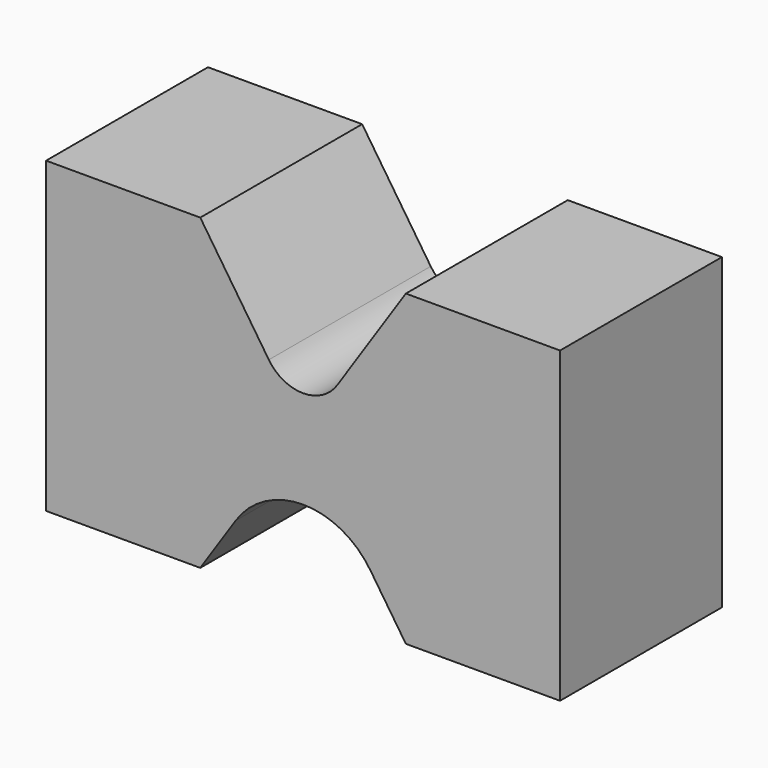
from build123d import *

# Parameters (mm, degrees)
F1_DEPTH = 50
F2_R     = 20


with BuildPart() as f1:
    # F0 (on Front) → F1 (new body)
    with BuildSketch(Plane.XZ):
        with BuildLine():
            Line((-63.5, 38.1), (-63.5, 0))
            Line((-63.5, 0), (-63.5, -38.1))
            Line((-63.5, -38.1), (-25.4, -38.1))
            Line((-25.4, -38.1), (0, 0))
            Line((0, 0), (25.4, -38.1))
            Line((25.4, -38.1), (63.5, -38.1))
            Line((63.5, -38.1), (63.5, 0))
            Line((63.5, 0), (63.5, 38.1))
            Line((63.5, 38.1), (25.4, 38.1))
            Line((25.4, 38.1), (8.453631, 12.680446))
            ThreePointArc((8.453631, 12.680446), (0, 8.1562), (-8.453631, 12.680446))
            Line((-8.453631, 12.680446), (-25.4, 38.1))
            Line((-25.4, 38.1), (-63.5, 38.1))
        make_face()
    extrude(amount=F1_DEPTH)

    # F2
    f2_edges = [f1.edges().sort_by_distance(p)[0] for p in [
        (0, -25, 0),
    ]]
    fillet(f2_edges, radius=F2_R)


solid = f1.part
